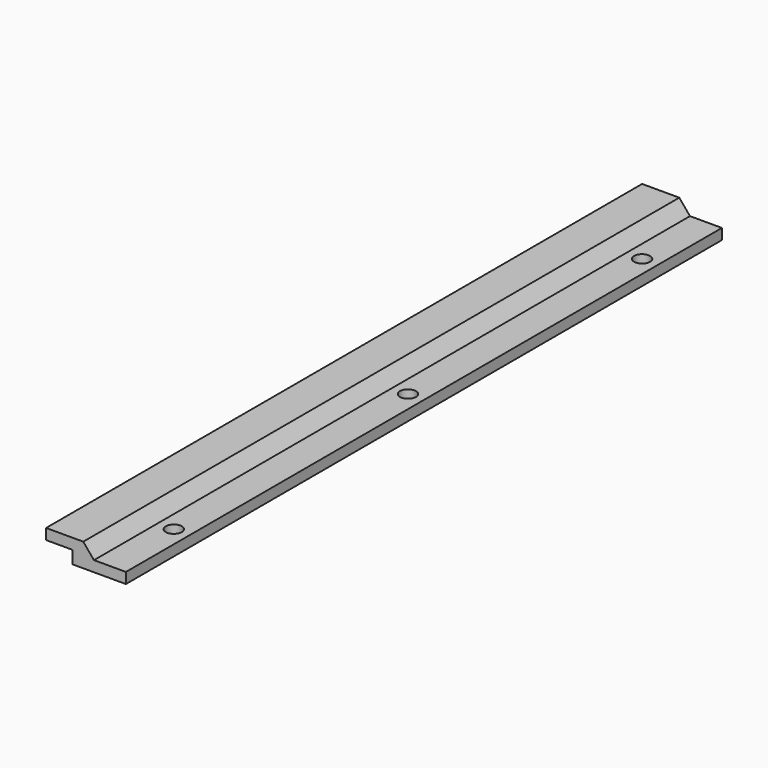
from build123d import *

# Parameters (mm, degrees)
F1_DEPTH = 140
F2_R     = 1.5
F3_DEPTH = 25


with BuildPart() as f1:
    # F0 (on Front) → F1 (new body)
    with BuildSketch(Plane.XZ):
        Polygon((0, 4.41), (0, 2.4), (5, 2.4), (5, 0), (15, 0), (15, 2.01), (9, 2.01), (6.986161, 4.41), align=None)
    extrude(amount=F1_DEPTH)

    # F2 (on face) → F3 (cut)
    with BuildSketch(Plane.XY.offset(2.01)):
        with Locations((12, -125)):
            Circle(F2_R)
        with Locations((12, -70)):
            Circle(F2_R)
        with Locations((12, -15)):
            Circle(F2_R)
    extrude(amount=-F3_DEPTH, mode=Mode.SUBTRACT)


solid = f1.part
